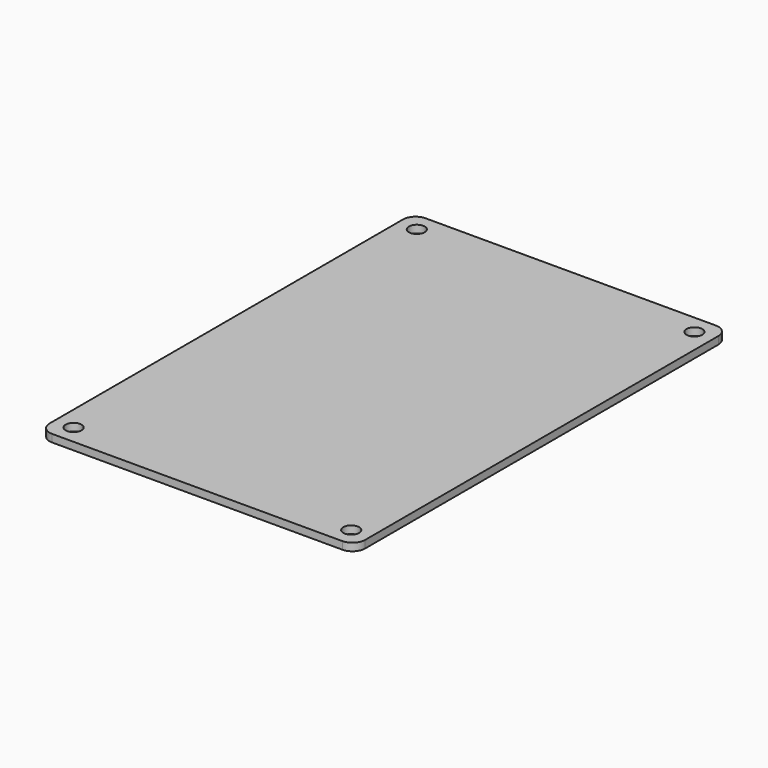
from build123d import *

# Parameters (mm, degrees)
F0_W     = 63.5
F0_H     = 93.98
F0_R     = 1.5875
F1_DEPTH = 1.524
F2_R     = 2.54


with BuildPart() as f1:
    # F0 (on Top) → F1 (new body)
    with BuildSketch(Plane.XY):
        Rectangle(F0_W, F0_H)
        with Locations((-27.94, -43.18)):
            Circle(F0_R, mode=Mode.SUBTRACT)
        with Locations((27.94, -43.18)):
            Circle(F0_R, mode=Mode.SUBTRACT)
        with Locations((-27.94, 43.18)):
            Circle(F0_R, mode=Mode.SUBTRACT)
        with Locations((27.94, 43.18)):
            Circle(F0_R, mode=Mode.SUBTRACT)
    extrude(amount=F1_DEPTH)

    # F2
    f2_edges = [f1.edges().sort_by_distance(p)[0] for p in [
        (-31.75, -46.99, 0.762),
        (31.75, -46.99, 0.762),
        (-31.75, 46.99, 0.762),
        (31.75, 46.99, 0.762),
    ]]
    fillet(f2_edges, radius=F2_R)


solid = f1.part
